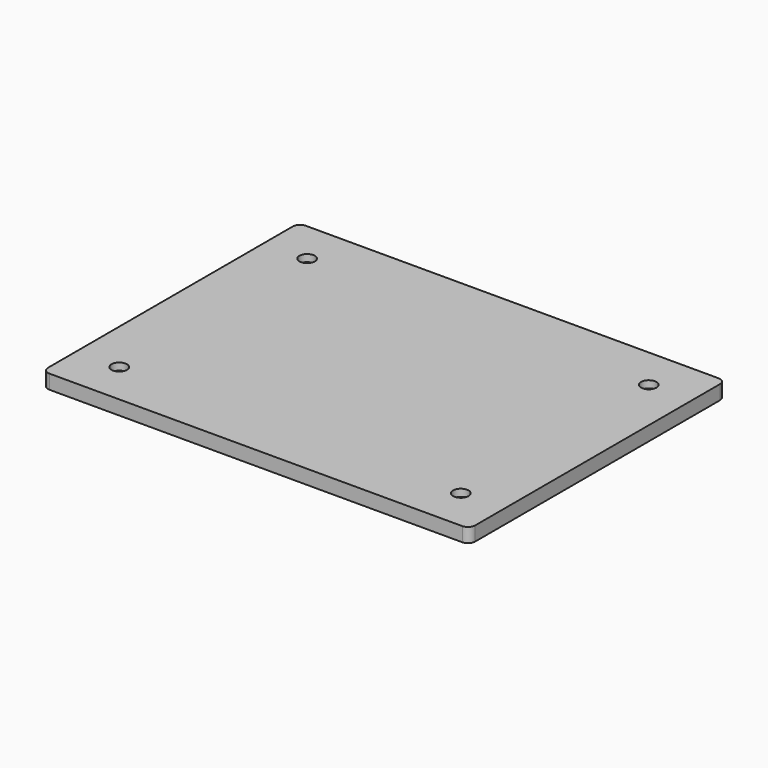
from build123d import *

# Parameters (mm, degrees)
F1_DEPTH = 20
F2_R     = 10.85
F3_DEPTH = 10


with BuildPart() as f1:
    # F0 (on Top) → F1 (new body)
    with BuildSketch(Plane.XY):
        with BuildLine():
            Line((-290, -225), (290, -225))
            ThreePointArc((290, -225), (297.071068, -222.071068), (300, -215))
            Line((300, -215), (300, 215))
            ThreePointArc((300, 215), (297.071068, 222.071068), (290, 225))
            Line((290, 225), (-290, 225))
            ThreePointArc((-290, 225), (-297.071068, 222.071068), (-300, 215))
            Line((-300, 215), (-300, -215))
            ThreePointArc((-300, -215), (-297.071068, -222.071068), (-290, -225))
        make_face()
    extrude(amount=F1_DEPTH)

    # F2 (on face) → F3 (cut)
    with BuildSketch(Plane.XY.offset(20)):
        with Locations((-240, 165)):
            Circle(F2_R)
        with Locations((240, 165)):
            Circle(F2_R)
        with Locations((240, -165)):
            Circle(F2_R)
        with Locations((-240, -165)):
            Circle(F2_R)
    extrude(amount=-F3_DEPTH, mode=Mode.SUBTRACT)


solid = f1.part
